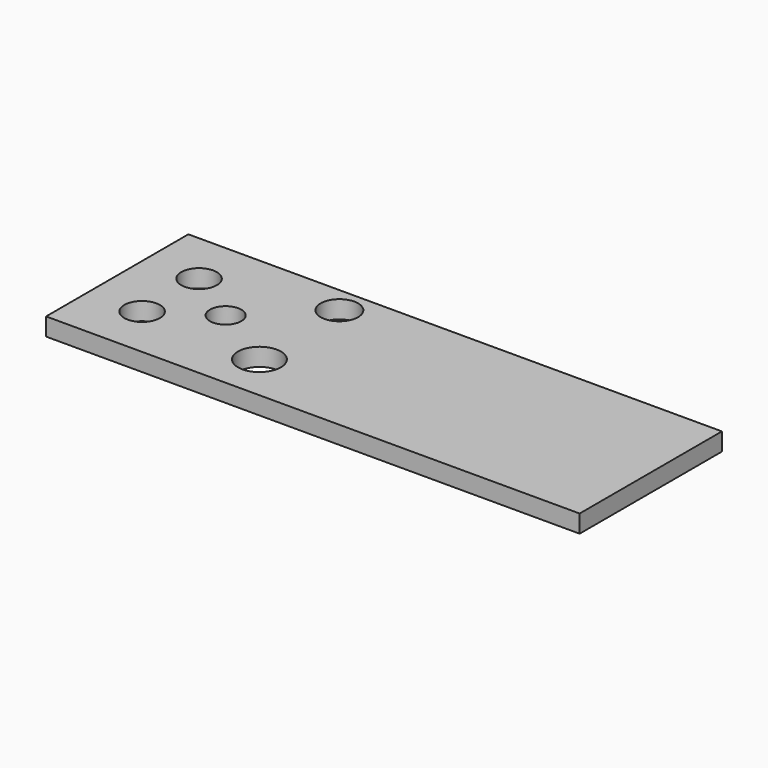
from build123d import *

# Parameters (mm, degrees)
F0_W     = 150
F0_H     = 50
F0_R     = 5
F0_R_2   = 6.031736
F0_R_3   = 4.400903
F0_R_4   = 5.274594
F1_DEPTH = 5


with BuildPart() as f1:
    # F0 (on Top) → F1 (new body)
    with BuildSketch(Plane.XY):
        Rectangle(F0_W, F0_H)
        with Locations((-60, -10)):
            Circle(F0_R, mode=Mode.SUBTRACT)
        with Locations((-25.651498, -11.703629)):
            Circle(F0_R_2, mode=Mode.SUBTRACT)
        with Locations((-44.522464, 0)):
            Circle(F0_R_3, mode=Mode.SUBTRACT)
        with Locations((-60, 10)):
            Circle(F0_R, mode=Mode.SUBTRACT)
        with Locations((-26.558751, 17.510081)):
            Circle(F0_R_4, mode=Mode.SUBTRACT)
    extrude(amount=F1_DEPTH)


solid = f1.part
